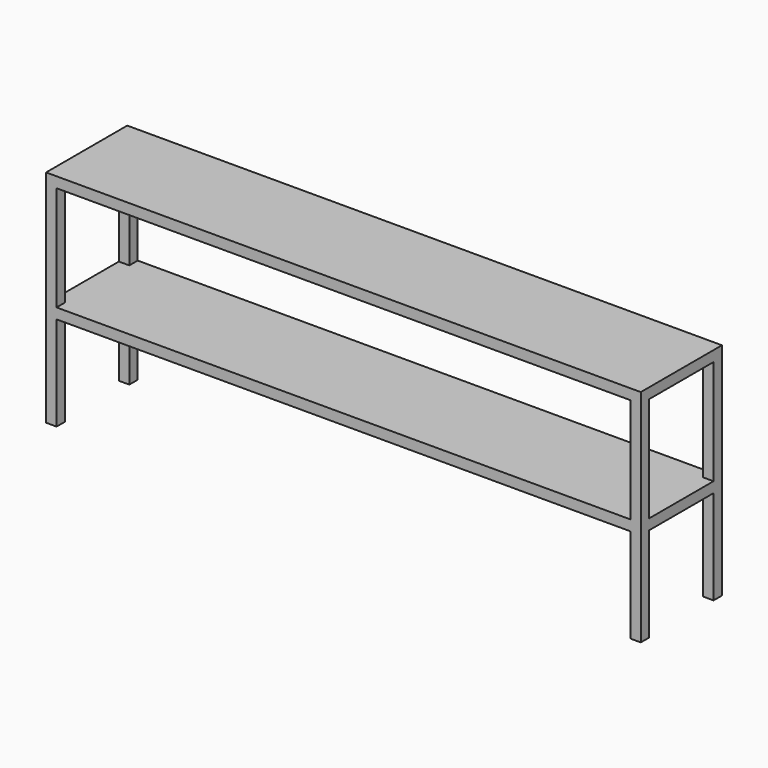
from build123d import *

# Parameters (mm, degrees)
F0_W          = 1700
F0_H          = 290
F1_DEPTH      = 30
F2_W          = 30
F2_H          = 30
F3_DEPTH      = 600
F4_W          = 290
F4_H          = 30
F5_DEPTH      = 850
F5_DEPTH_BACK = 850


with BuildPart() as f1:
    # F0 (on Top) → F1 (new body)
    with BuildSketch(Plane.XY):
        Rectangle(F0_W, F0_H)
    extrude(amount=F1_DEPTH)

    # F2 (on face) → F3 (join)
    with BuildSketch(Plane(origin=(0, 0, 0), x_dir=(1, 0, 0), z_dir=(0, 0, -1))):
        with Locations((-835, 130)):
            Rectangle(F2_W, F2_H)
        with Locations((835, 130)):
            Rectangle(F2_W, F2_H)
        with Locations((835, -130)):
            Rectangle(F2_W, F2_H)
        with Locations((-835, -130)):
            Rectangle(F2_W, F2_H)
    extrude(amount=F3_DEPTH)

    # F4 (on Right) → F5 (join, two sides)
    with BuildSketch(Plane.YZ) as f5_sk:
        with Locations((0, -315)):
            Rectangle(F4_W, F4_H)
    extrude(amount=F5_DEPTH)
    extrude(f5_sk.sketch, amount=-F5_DEPTH_BACK)


solid = f1.part
